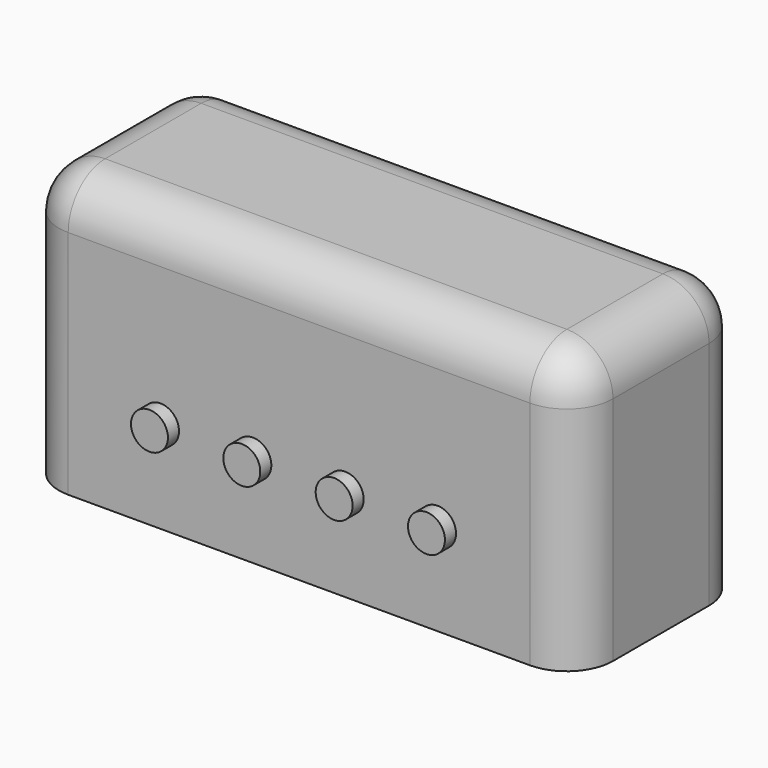
from build123d import *

# Parameters (mm, degrees)
F0_W     = 60
F0_H     = 23
F1_DEPTH = 30
F2_R     = 5
F3_R     = 2
F4_DEPTH = 13


with BuildPart() as f1:
    # F0 (on Top) → F1 (new body)
    with BuildSketch(Plane.XY):
        Rectangle(F0_W, F0_H)
    extrude(amount=F1_DEPTH)

    # F2
    f2_edges = [f1.edges().sort_by_distance(p)[0] for p in [
        (-30, 11.5, 15),
        (-30, -11.5, 15),
        (30, -11.5, 15),
        (30, 11.5, 15),
        (0, -11.5, 30),
        (-30, 0, 30),
        (0, 11.5, 30),
        (30, 0, 30),
    ]]
    fillet(f2_edges, radius=F2_R)

    # F3 (on Front) → F4 (join)
    with BuildSketch(Plane.XZ):
        with Locations((-15, 9.963796)):
            Circle(F3_R)
        with BuildLine():
            ThreePointArc((17, 9.963796), (15, 11.963796), (13, 9.963796))
            ThreePointArc((13, 9.963796), (15, 7.963796), (17, 9.963796))
        make_face()
        with BuildLine():
            ThreePointArc((7, 9.963796), (5, 11.963796), (3, 9.963796))
            Line((3, 9.963796), (7, 9.963796))
        make_face()
        with BuildLine():
            Line((7, 9.963796), (3, 9.963796))
            ThreePointArc((3, 9.963796), (5, 7.963796), (7, 9.963796))
        make_face()
        with BuildLine():
            ThreePointArc((-3, 9.963796), (-5, 11.963796), (-7, 9.963796))
            Line((-7, 9.963796), (-3, 9.963796))
        make_face()
        with BuildLine():
            Line((-3, 9.963796), (-7, 9.963796))
            ThreePointArc((-7, 9.963796), (-5, 7.963796), (-3, 9.963796))
        make_face()
    extrude(amount=F4_DEPTH)


solid = f1.part
